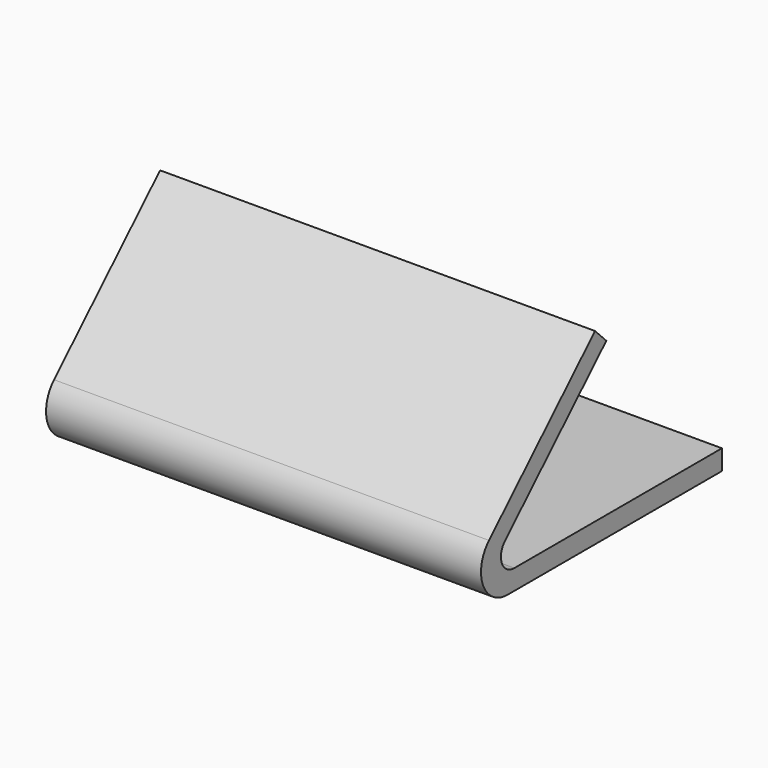
from build123d import *

# Parameters (mm, degrees)
F1_DEPTH = 130


with BuildPart() as f1:
    # F0 (on Right) → F1 (new body)
    with BuildSketch(Plane.YZ):
        with BuildLine():
            Line((16.225039, 51.847984), (12.01576, 56.123725))
            Line((12.01576, 56.123725), (-27.597479, 17.126236))
            ThreePointArc((-27.597479, 17.126236), (-29.835725, 6.209377), (-20.582013, 0))
            Line((-20.582013, 0), (59.417987, 0))
            Line((59.417987, 0), (59.417987, 6))
            Line((59.417987, 6), (-18.140802, 6))
            ThreePointArc((-18.140802, 6), (-22.767658, 9.104689), (-21.648535, 14.563118))
            Line((-21.648535, 14.563118), (16.225039, 51.847984))
        make_face()
    extrude(amount=F1_DEPTH)


solid = f1.part
